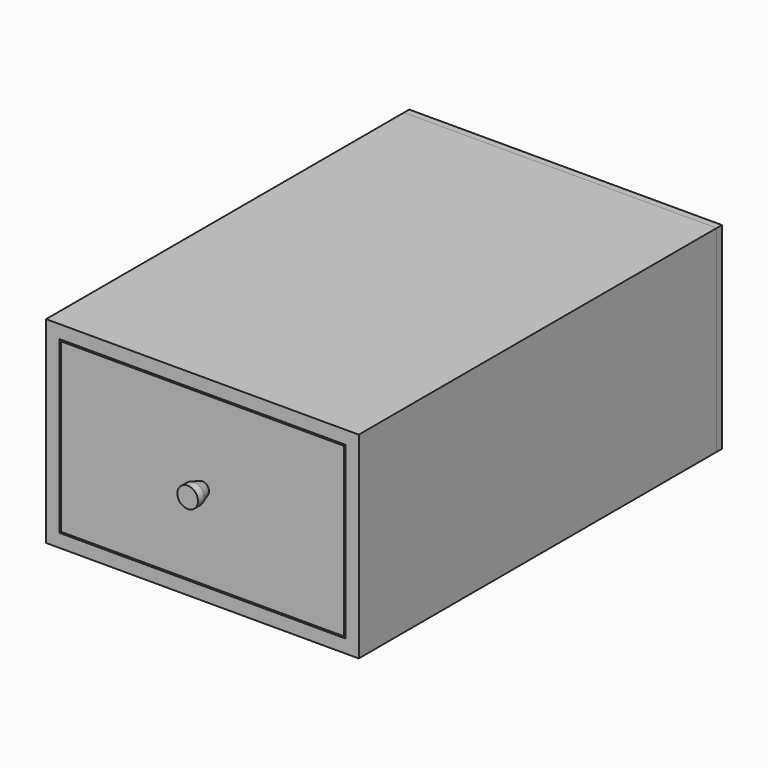
from build123d import *

# Parameters (mm, degrees)
F0_W      = 425
F0_H      = 267.837838
F0_W_2    = 389
F0_H_2    = 231.837838
F1_DEPTH  = 608
F2_W      = 425
F2_H      = 267.837838
F3_DEPTH  = 9
F4_W      = 385
F4_H      = 227.837838
F5_DEPTH  = 18
F6_W      = 360
F6_H      = 175.442627
F7_DEPTH  = 550
F8_T      = -18
F9_R      = 14.011135
F10_DEPTH = 25
F11_SIZE2 = 5
F11_SIZE  = 15


with BuildPart() as f1:
    # F0 (on Front) → F1 (new body)
    with BuildSketch(Plane.XZ):
        with Locations((-88.831797, 78.456648)):
            Rectangle(F0_W, F0_H)
        with Locations((-88.831797, 78.456648)):
            Rectangle(F0_W_2, F0_H_2, mode=Mode.SUBTRACT)
    extrude(amount=F1_DEPTH)


with BuildPart() as f3:
    # F2 (on face) → F3 (new body)
    with BuildSketch(Plane(origin=(0, 0, 0), x_dir=(-1, 0, 0), z_dir=(0, 1, 0))):
        with Locations((88.831797, 78.456648)):
            Rectangle(F2_W, F2_H)
    extrude(amount=F3_DEPTH)


with BuildPart() as f5:
    # F4 (on face) → F5 (new body)
    with BuildSketch(Plane.XZ.offset(608)):
        with Locations((-88.831797, 78.456648)):
            Rectangle(F4_W, F4_H)
    extrude(amount=-F5_DEPTH)


with BuildPart() as f7:
    # F6 (on face) → F7 (new body)
    with BuildSketch(Plane(origin=(0, -590, 0), x_dir=(-1, 0, 0), z_dir=(0, 1, 0))):
        with Locations((88.831797, 72.259043)):
            Rectangle(F6_W, F6_H)
    extrude(amount=F7_DEPTH)

    # F8
    f8_openings = [f7.faces().sort_by_distance(p)[0] for p in [
        (-88.831797, -315, 159.980356),
    ]]
    offset(amount=F8_T, openings=f8_openings)


with BuildPart() as f10:
    # F9 (on face) → F10 (new body)
    with BuildSketch(Plane.XZ.offset(608)):
        with Locations((-88.831797, 78.456648)):
            Circle(F9_R)
    extrude(amount=F10_DEPTH)

    # F11
    f11_edges = [f10.edges().sort_by_distance(p)[0] for p in [
        (-102.842932, -608, 78.456648),
    ]]
    chamfer(f11_edges, length=F11_SIZE, length2=F11_SIZE2)


solid = Compound([f1.part, f3.part, f5.part, f7.part, f10.part])
